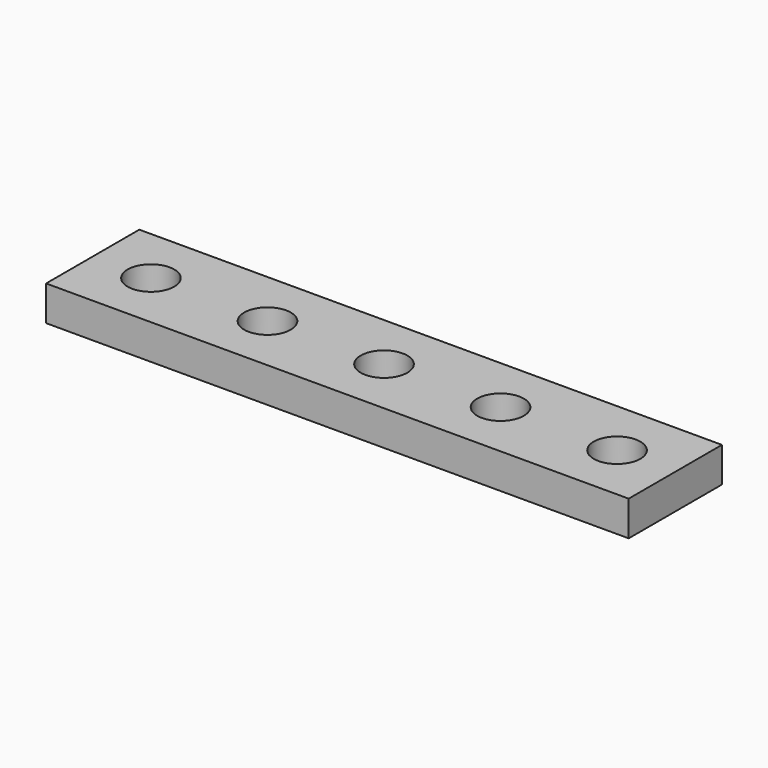
from build123d import *

# Parameters (mm, degrees)
CYLINDER004_R     = 2
CYLINDER004_DEPTH = 10
CYLINDER003_R     = 2
CYLINDER003_DEPTH = 10
CYLINDER002_R     = 2
CYLINDER002_DEPTH = 10
CYLINDER001_R     = 2
CYLINDER001_DEPTH = 10
CYLINDER_R        = 2
CYLINDER_DEPTH    = 10
BOX_W             = 50
BOX_H             = 10
BOX_DEPTH         = 3


with BuildPart() as cylinder004:
    # Cylinder004 → Cylinder004 (new body)
    with BuildSketch(Plane(origin=(45, 5, -3), x_dir=(1, 0, 0), z_dir=(0, 0, 1))):
        Circle(CYLINDER004_R)
    extrude(amount=CYLINDER004_DEPTH)


with BuildPart() as cylinder003:
    # Cylinder003 → Cylinder003 (new body)
    with BuildSketch(Plane(origin=(35, 5, -3), x_dir=(1, 0, 0), z_dir=(0, 0, 1))):
        Circle(CYLINDER003_R)
    extrude(amount=CYLINDER003_DEPTH)


with BuildPart() as cylinder002:
    # Cylinder002 → Cylinder002 (new body)
    with BuildSketch(Plane(origin=(25, 5, -3), x_dir=(1, 0, 0), z_dir=(0, 0, 1))):
        Circle(CYLINDER002_R)
    extrude(amount=CYLINDER002_DEPTH)


with BuildPart() as cylinder001:
    # Cylinder001 → Cylinder001 (new body)
    with BuildSketch(Plane(origin=(15, 5, -3), x_dir=(1, 0, 0), z_dir=(0, 0, 1))):
        Circle(CYLINDER001_R)
    extrude(amount=CYLINDER001_DEPTH)


with BuildPart() as cylinder:
    # Cylinder → Cylinder (new body)
    with BuildSketch(Plane(origin=(5, 5, -3), x_dir=(1, 0, 0), z_dir=(0, 0, 1))):
        Circle(CYLINDER_R)
    extrude(amount=CYLINDER_DEPTH)


with BuildPart() as cut004:
    # Box → Box (new body)
    with BuildSketch(Plane.XY):
        with Locations((25, 5)):
            Rectangle(BOX_W, BOX_H)
    extrude(amount=BOX_DEPTH)

    # Cut: cut Cylinder
    add(cylinder.part, mode=Mode.SUBTRACT)

    # Cut001: cut Cylinder001
    add(cylinder001.part, mode=Mode.SUBTRACT)

    # Cut002: cut Cylinder002
    add(cylinder002.part, mode=Mode.SUBTRACT)

    # Cut003: cut Cylinder003
    add(cylinder003.part, mode=Mode.SUBTRACT)

    # Cut004: cut Cylinder004
    add(cylinder004.part, mode=Mode.SUBTRACT)


solid = cut004.part
